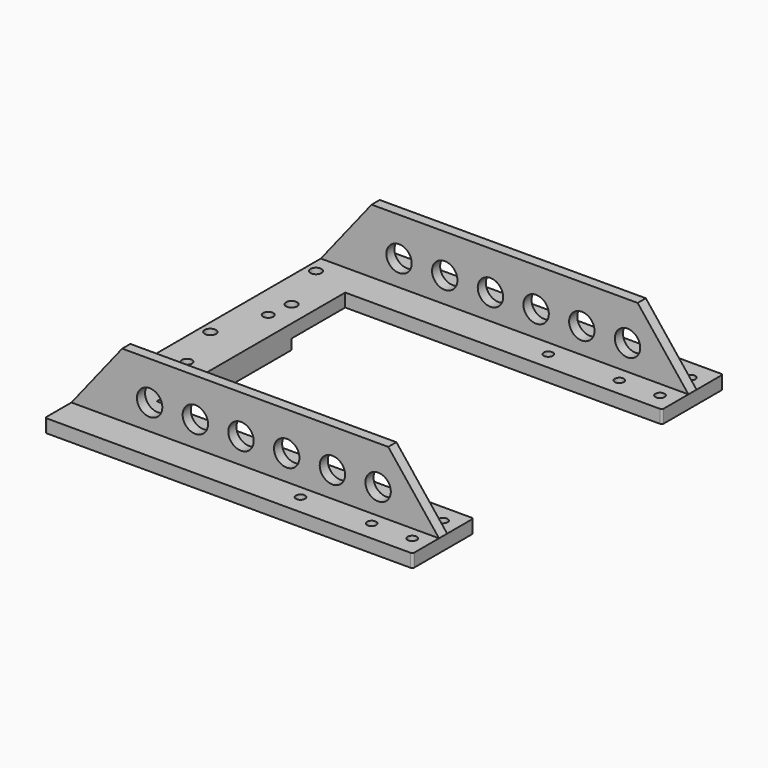
from build123d import *

# Parameters (mm, degrees)
F0_W     = 362
F0_H     = 10
F0_H_2   = 32.5
F1_DEPTH = 13
F2_DEPTH = 23
F3_DEPTH = 63
F4_D     = 9
F5_D     = 11
F6_D     = 10
F8_DEPTH = 349.501
F9_D     = 25
F10_R    = 2


with BuildPart() as f1:
    # F0 (on Top) → F1 (new body)
    with BuildSketch(Plane.XY):
        Polygon((0, 116), (0, 0), (0, -116), (50, -116), (50, -50), (40, -50), (40, 0), (40, 50), (50, 50), (50, 116), align=None)
        Polygon((0, 148.5), (0, 116), (50, 116), (362, 116), (362, 148.5), align=None)
        Polygon((50, -116), (0, -116), (0, -148.5), (362, -148.5), (362, -116), align=None)
        with Locations((181, 153.5)):
            Rectangle(F0_W, F0_H)
        with Locations((181, -153.5)):
            Rectangle(F0_W, F0_H)
        with Locations((181, 174.75)):
            Rectangle(F0_W, F0_H_2)
        Polygon((50, 0), (50, 50), (40, 50), (40, 0), (40, -50), (50, -50), align=None)
        with Locations((181, -174.75)):
            Rectangle(F0_W, F0_H_2)
    extrude(amount=-F1_DEPTH)

    # F0 (on Top) → F2 (join)
    with BuildSketch(Plane.XY):
        Polygon((50, 0), (50, 50), (40, 50), (40, 0), (40, -50), (50, -50), align=None)
    extrude(amount=-F2_DEPTH)

    # F0 (on Top) → F3 (join)
    with BuildSketch(Plane.XY):
        with Locations((181, 153.5)):
            Rectangle(F0_W, F0_H)
        with Locations((181, -153.5)):
            Rectangle(F0_W, F0_H)
    extrude(amount=F3_DEPTH)

    # F4 (through all)
    with Locations(Plane.XY):
        with Locations((236, 171.5), (306, 171.5), (346, 171.5), (236, 133.5), (306, 133.5), (346, 133.5), (236, -171.5), (306, -171.5), (346, -171.5), (236, -133.5), (306, -133.5), (346, -133.5)):
            Hole(F4_D / 2)

    # F5 (through all)
    with Locations(Plane.XY):
        with Locations((10, 130), (30, 75), (10, -130), (10, 0), (30, -75)):
            Hole(F5_D / 2)

    # F6 (through all)
    with Locations(Plane.XY):
        with Locations((27, 50), (27, -50)):
            Hole(F6_D / 2)

    # F7 (on face) → F8 (cut, through all)
    with BuildSketch(Plane.XZ.offset(158.5)):
        Polygon((50, 63), (0, 63), (0, 0), align=None)
        Polygon((312, 63), (362, 0), (362, 63), align=None)
    extrude(amount=-F8_DEPTH, mode=Mode.SUBTRACT)

    # F9 (through all)
    with Locations(Plane.XZ.offset(158.5)):
        with Locations((77, 25), (122, 25), (167, 25), (212, 25), (257, 25), (302, 25)):
            Hole(F9_D / 2)

    # F10
    f10_edges = [f1.edges().sort_by_distance(p)[0] for p in [
        (362, -191, -6.5),
        (362, 116, -6.5),
        (362, -116, -6.5),
        (362, 191, -6.5),
        (0, -191, -6.5),
        (0, 191, -6.5),
    ]]
    fillet(f10_edges, radius=F10_R)


solid = f1.part
